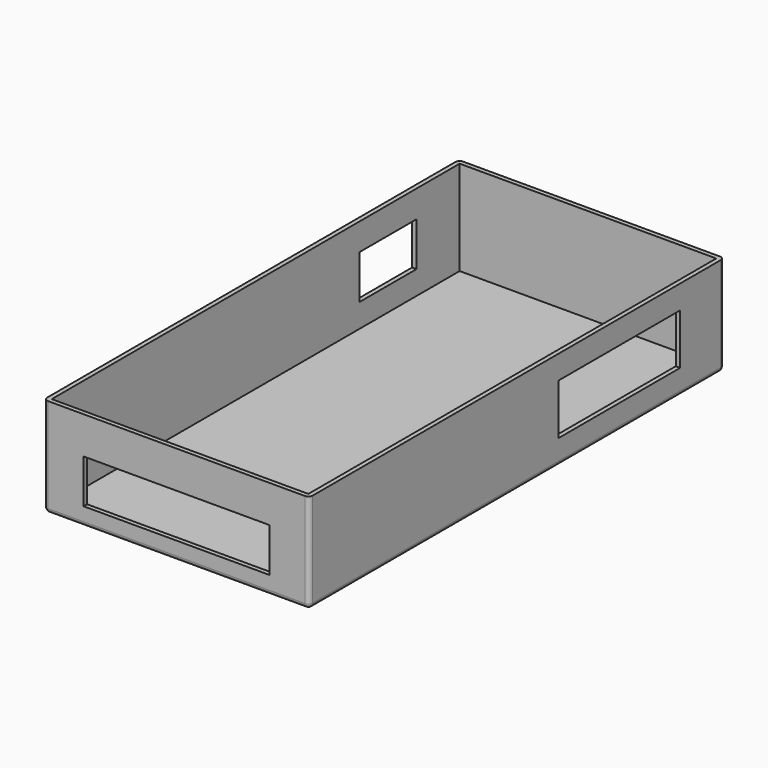
from build123d import *

# Parameters (mm, degrees)
SKETCH_W        = 76
SKETCH_H        = 151
PAD_DEPTH       = 28
THICKNESS_T     = 1.3
SKETCH001_W     = 55
SKETCH001_H     = 13
POCKET_DEPTH    = 5
SKETCH002_W     = 21
SKETCH002_H     = 13
POCKET001_DEPTH = 5
SKETCH003_W     = 45
SKETCH003_H     = 15
POCKET002_DEPTH = 5


with BuildPart() as part:
    # Sketch → Pad (new body)
    with BuildSketch(Plane.XY):
        Rectangle(SKETCH_W, SKETCH_H)
    extrude(amount=PAD_DEPTH)

    # Thickness
    thickness_openings = [part.faces().sort_by_distance(p)[0] for p in [
        (0, 0, 28),
    ]]
    offset(amount=THICKNESS_T, openings=thickness_openings)

    # Sketch001 (on Face12 of Thickness) → Pocket (cut)
    with BuildSketch(Plane.XZ.offset(76.8)):
        with Locations((0, 10.5)):
            Rectangle(SKETCH001_W, SKETCH001_H)
    extrude(amount=-POCKET_DEPTH, mode=Mode.SUBTRACT)

    # Sketch002 (on Face11 of Pocket) → Pocket001 (cut)
    with BuildSketch(Plane(origin=(-39.3, 0, 0), x_dir=(0, -1, 0), z_dir=(-1, 0, 0))):
        with Locations((-49, 13.5)):
            Rectangle(SKETCH002_W, SKETCH002_H)
    extrude(amount=-POCKET001_DEPTH, mode=Mode.SUBTRACT)

    # Sketch003 (on Face11 of Pocket001) → Pocket002 (cut)
    with BuildSketch(Plane.YZ.offset(39.3)):
        with Locations((38, 13.5)):
            Rectangle(SKETCH003_W, SKETCH003_H)
    extrude(amount=-POCKET002_DEPTH, mode=Mode.SUBTRACT)


solid = part.part
